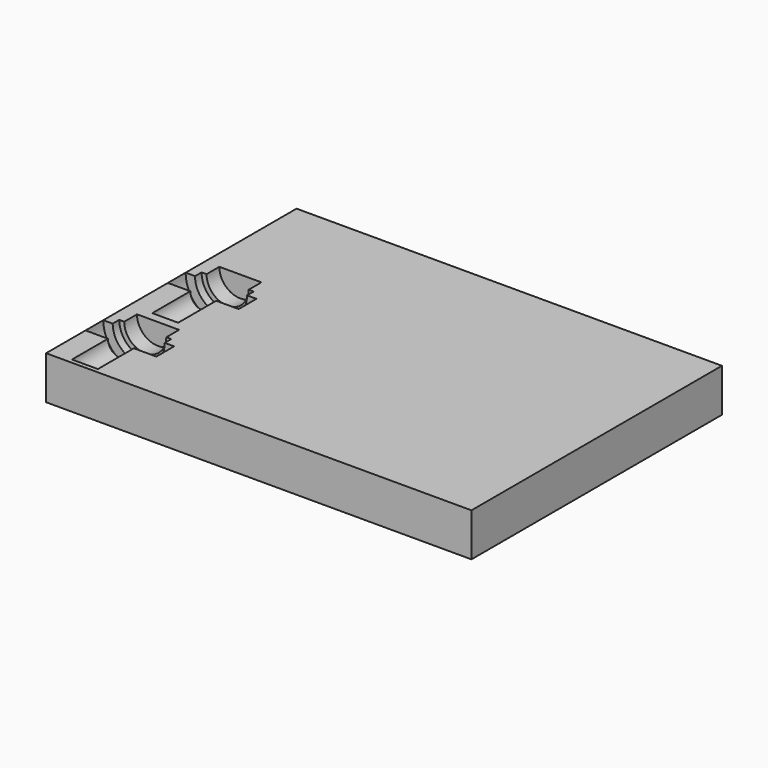
from build123d import *

# Parameters (mm, degrees)
F0_W     = 197
F0_H     = 145
F1_DEPTH = 20
F2_W     = 6
F2_H     = 20.820669
F2_W_2   = 9.75
F2_H_2   = 7.4


with BuildPart() as f1:
    # F0 (on Top) → F1 (new body)
    with BuildSketch(Plane.XY):
        with Locations((58.305234, 64.482138)):
            Rectangle(F0_W, F0_H)
    extrude(amount=F1_DEPTH)

    # F2 (on face) → F3 (revolve, cut)
    with BuildSketch(Plane.XY.offset(20)):
        with Locations((-26.794766, 4.392473)):
            Rectangle(F2_W, F2_H)
        Polygon((-29.794766, 14.802807), (-23.794766, 14.802807), (-23.794766, 25.102807), (-35.844766, 25.102807), (-40.194766, 25.102807), (-40.194766, 14.802807), align=None)
        Polygon((-35.844766, 25.102807), (-23.794766, 25.102807), (-23.794766, 28.902807), (-33.544766, 28.902807), (-35.844766, 28.902807), align=None)
        with Locations((-28.669766, 32.602807)):
            Rectangle(F2_W_2, F2_H_2)
        Polygon((-29.794766, 40.462807), (-23.794766, 40.462807), (-23.794766, 83.962807), (-33.544766, 83.962807), (-33.544766, 76.562807), (-35.844766, 76.562807), (-35.844766, 72.762807), (-40.194766, 72.762807), (-40.194766, 62.462807), (-29.794766, 62.462807), align=None)
    revolve(axis=Axis((-23.794766, 19.952807, 20), (0, 1, 0)), mode=Mode.SUBTRACT)


solid = f1.part
